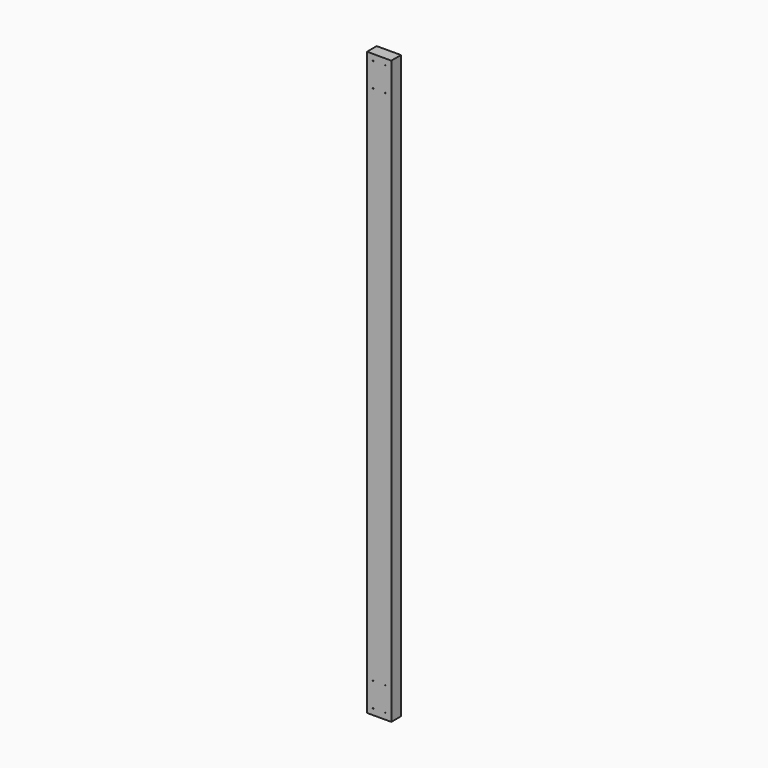
from build123d import *

# Parameters (mm, degrees)
F0_W     = 101.6
F0_H     = 2438.4
F0_R     = 1.5875
F1_DEPTH = 50.8


with BuildPart() as f1:
    # F0 (on Front) → F1 (new body)
    with BuildSketch(Plane.XZ):
        with Locations((-4.244904, 1176.204136)):
            Rectangle(F0_W, F0_H)
        with Locations((-29.644904, -17.595864)):
            Circle(F0_R, mode=Mode.SUBTRACT)
        with Locations((-29.644904, 84.004136)):
            Circle(F0_R, mode=Mode.SUBTRACT)
        with Locations((21.155096, -17.595864)):
            Circle(F0_R, mode=Mode.SUBTRACT)
        with Locations((21.155096, 84.004136)):
            Circle(F0_R, mode=Mode.SUBTRACT)
        with Locations((-29.644904, 2268.404136)):
            Circle(F0_R, mode=Mode.SUBTRACT)
        with Locations((-29.644904, 2370.004136)):
            Circle(F0_R, mode=Mode.SUBTRACT)
        with Locations((21.155096, 2268.404136)):
            Circle(F0_R, mode=Mode.SUBTRACT)
        with Locations((21.155096, 2370.004136)):
            Circle(F0_R, mode=Mode.SUBTRACT)
    extrude(amount=F1_DEPTH)


solid = f1.part
